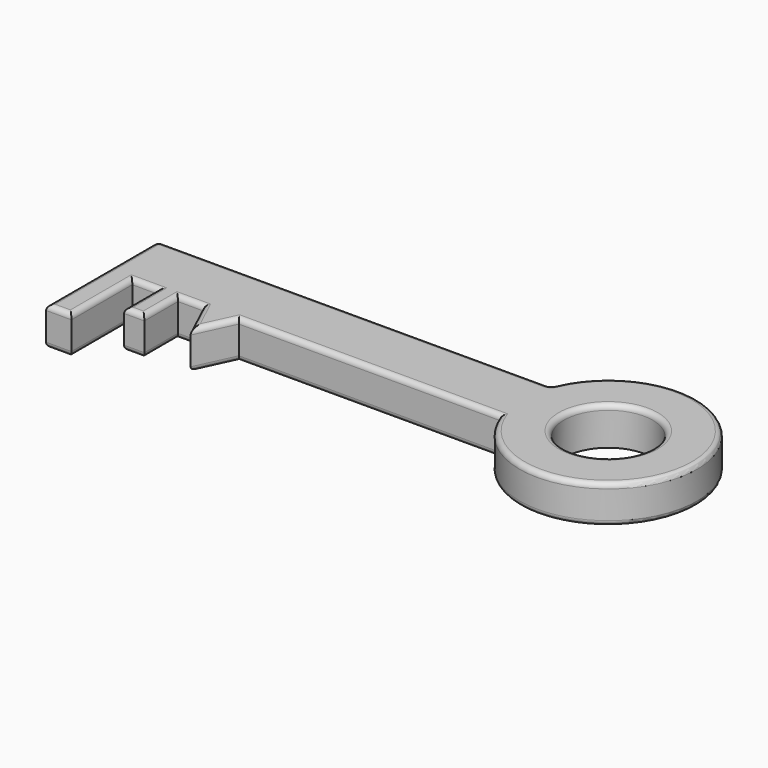
from build123d import *

# Parameters (mm, degrees)
F0_R     = 17.5
F1_DEPTH = 15
F2_R     = 2


with BuildPart() as f1:
    # F0 (on Top) → F1 (new body)
    with BuildSketch(Plane.XY):
        with BuildLine():
            Line((86.187997, 25), (-68.812003, 25))
            Line((-68.812003, 25), (-68.812003, 0))
            Line((-68.812003, 0), (-68.812003, -30))
            Line((-68.812003, -30), (-58.812003, -30))
            Line((-58.812003, -30), (-58.812003, 0))
            Line((-58.812003, 0), (-48.812003, 0))
            Line((-48.812003, 0), (-48.812003, -16.553))
            Line((-48.812003, -16.553), (-40.812003, -16.553))
            Line((-40.812003, -16.553), (-40.812003, 0))
            Line((-40.812003, 0), (-30.812003, 0))
            Line((-30.812003, 0), (-23.812003, -15))
            Line((-23.812003, -15), (-16.812003, 0))
            Line((-16.812003, 0), (86.187997, 0))
            ThreePointArc((86.187997, 0), (153.879739, 12.5), (86.187997, 25))
        make_face()
        with Locations((118.879739, 12.5)):
            Circle(F0_R, mode=Mode.SUBTRACT)
    extrude(amount=F1_DEPTH)

    # F2
    f2_edges = [f1.edges().sort_by_distance(p)[0] for p in [
        (8.687997, 25, 15),
        (-68.812003, -2.5, 15),
        (-58.812003, -15, 15),
        (-48.812003, -8.2765, 15),
        (-44.812003, -16.553, 15),
        (-27.312003, -7.5, 15),
        (34.687997, 0, 15),
        (-20.312003, -7.5, 15),
        (-40.812003, -8.2765, 15),
        (-63.812003, -30, 15),
        (-53.812003, 0, 15),
        (-35.812003, 0, 15),
        (153.879739, 12.5, 15),
        (101.379739, 12.5, 15),
        (153.879739, 12.5, 0),
        (8.687997, 25, 0),
        (86.187997, 25, 7.5),
        (-68.812003, 25, 7.5),
        (34.687997, 0, 0),
        (-20.312003, -7.5, 0),
        (-27.312003, -7.5, 0),
        (-35.812003, 0, 0),
        (-40.812003, -8.2765, 0),
        (-44.812003, -16.553, 0),
        (-48.812003, -8.2765, 0),
        (-53.812003, 0, 0),
        (-58.812003, -15, 0),
        (-63.812003, -30, 0),
        (-68.812003, -2.5, 0),
    ]]
    fillet(f2_edges, radius=F2_R)


solid = f1.part
